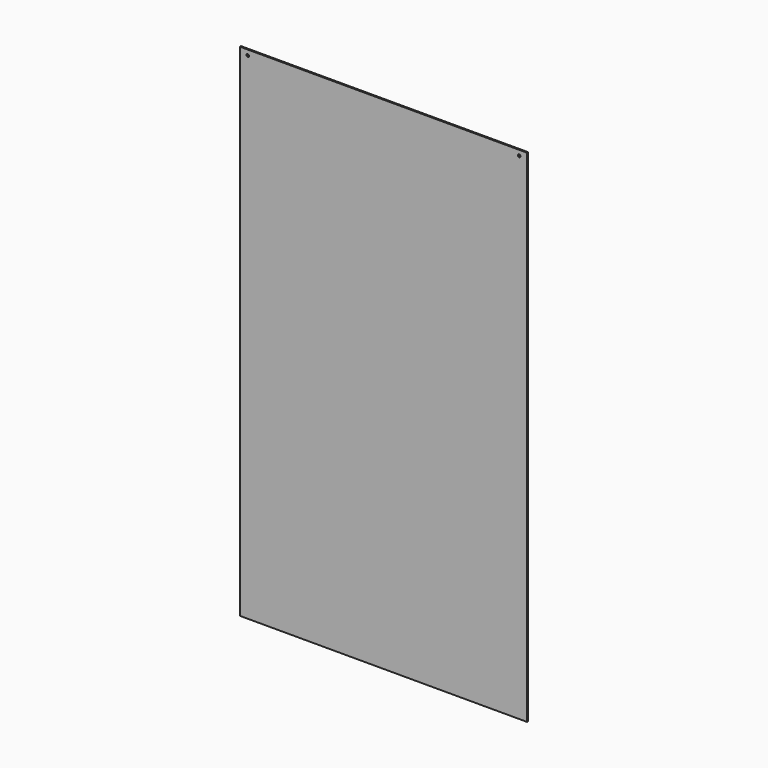
from build123d import *

# Parameters (mm, degrees)
F0_W     = 550
F0_H     = 960
F1_DEPTH = 2.5
F3_R     = 2.5
F4_DEPTH = 2.501


with BuildPart() as f1:
    # F0 (on Front) → F1 (new body)
    with BuildSketch(Plane.XZ):
        Rectangle(F0_W, F0_H)
    extrude(amount=F1_DEPTH)

    # F3 (on face) → F4 (cut, through all)
    with BuildSketch(Plane.XZ.offset(2.5)):
        with Locations((-260, 470)):
            Circle(F3_R)
        with Locations((260, 470)):
            Circle(F3_R)
    extrude(amount=-F4_DEPTH, mode=Mode.SUBTRACT)


solid = f1.part
